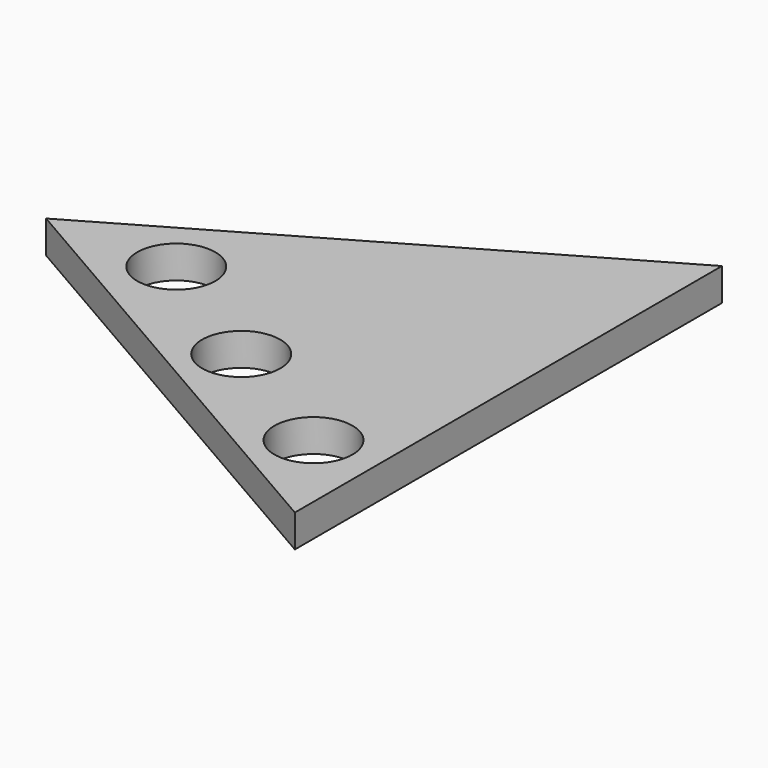
from build123d import *

# Parameters (mm, degrees)
F1_DEPTH = 5
F2_R     = 6
F3_DEPTH = 5


with BuildPart() as f1:
    # F0 (on Top) → F1 (new body)
    with BuildSketch(Plane.XY):
        Polygon((0, -62.367893), (0, 19.632107), (-71.014083, -21.367893), align=None)
    extrude(amount=F1_DEPTH)

    # F2 (on face) → F3 (cut, through all)
    with BuildSketch(Plane.XY.offset(5)):
        with Locations((-51.014083, -21.367893)):
            Circle(F2_R)
        with Locations((-30.750196, -34.227709)):
            Circle(F2_R)
        with Locations((-10, -46.287119)):
            Circle(F2_R)
    extrude(amount=-F3_DEPTH, mode=Mode.SUBTRACT)


solid = f1.part
